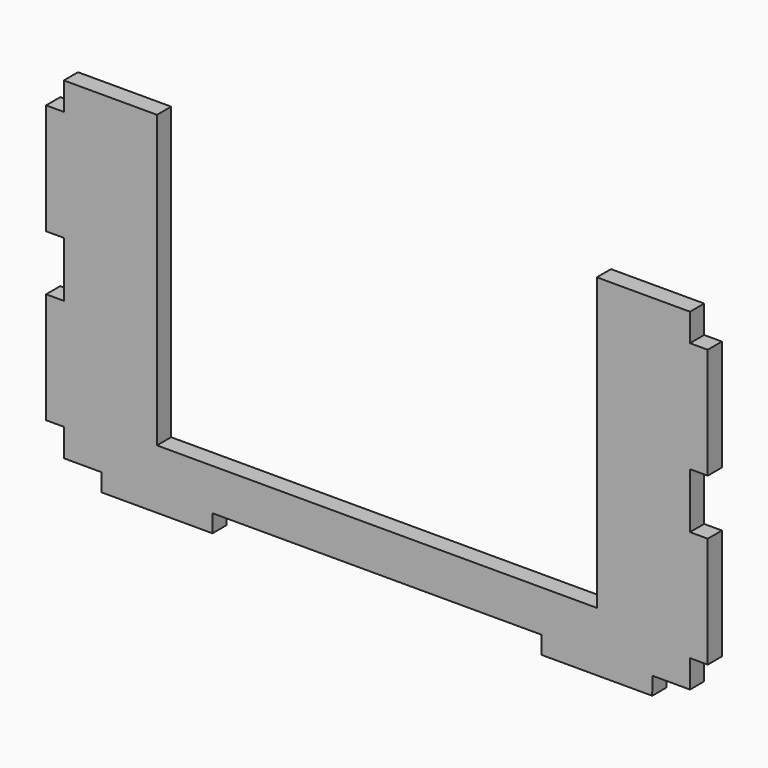
from build123d import *

# Parameters (mm, degrees)
F1_DEPTH = 4.064


with BuildPart() as f1:
    # F0 (on Front) → F1 (new body)
    with BuildSketch(Plane.XZ):
        Polygon((-71.967369, 59.55872), (-78.317369, 59.55872), (-80.603369, 59.55872), (-80.603369, 53.208721), (-84.667369, 53.208721), (-84.667369, 27.808721), (-80.603369, 27.808721), (-80.603369, 15.108721), (-84.667369, 15.108721), (-84.667369, -10.291279), (-80.603369, -10.291279), (-80.603369, -16.641279), (-71.958199, -16.641279), (-71.958199, -20.705279), (-46.558199, -20.705279), (-46.558199, -16.641279), (-43.364482, -16.641279), (-17.964482, -16.641279), (-8.889999, -16.641279), (-8.889999, -7.103579), (-43.364482, -7.103579), (-59.267368, -7.103579), (-59.267368, 59.55872), (-65.617369, 59.55872), align=None)
        Polygon((41.487373, -7.103579), (-8.889999, -7.103579), (-8.889999, -16.641279), (28.78737, -16.641279), (28.778201, -20.705279), (54.178201, -20.705279), (54.18737, -16.641279), (62.82337, -16.641279), (62.82337, -10.291279), (66.88737, -10.291279), (66.88737, 15.108721), (62.82337, 15.108721), (62.82337, 27.808721), (66.88737, 27.808721), (66.88737, 53.208721), (62.82337, 53.208721), (62.82337, 59.55872), (47.83737, 59.55872), (41.487373, 59.55872), align=None)
    extrude(amount=F1_DEPTH)


solid = f1.part
